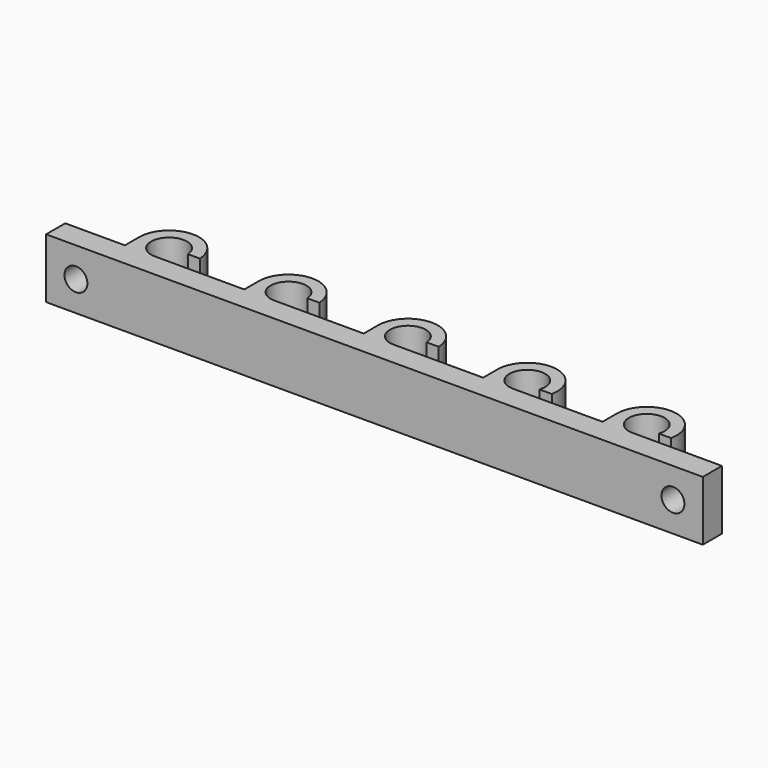
from build123d import *

# Parameters (mm, degrees)
F1_DEPTH = 7.9375
F2_R     = 1.524
F3_DEPTH = 3.176


with BuildPart() as f1:
    # F0 (on Top) → F1 (new body)
    with BuildSketch(Plane.XY):
        with BuildLine():
            ThreePointArc((0, -2.38125), (-1.739019, 1.626703), (2.375952, 0.15875))
            Line((2.375952, 0.15875), (3.965574, 0.15875))
            ThreePointArc((3.965574, 0.15875), (-0.079391, 3.967956), (-3.96875, 0))
            Line((-3.96875, 0), (-3.96875, -2.38125))
            Line((-3.96875, -2.38125), (-11.90625, -2.38125))
            Line((-11.90625, -2.38125), (-11.90625, -5.55625))
            Line((-11.90625, -5.55625), (75.390369, -5.55625))
            Line((75.390369, -5.55625), (75.390369, -2.38125))
            Line((75.390369, -2.38125), (67.452869, -2.38125))
            Line((67.452869, -2.38125), (63.487295, -2.38125))
            ThreePointArc((63.487295, -2.38125), (62.11248, 1.944282), (65.732359, -0.79375))
            Line((65.732359, -0.79375), (67.37586, -0.79375))
            ThreePointArc((67.37586, -0.79375), (63.88619, 3.948653), (59.518545, 0))
            Line((59.518545, 0), (59.518545, -2.38125))
            Line((59.518545, -2.38125), (51.581045, -2.38125))
            Line((51.581045, -2.38125), (47.615471, -2.38125))
            ThreePointArc((47.615471, -2.38125), (46.240656, 1.944282), (49.860535, -0.79375))
            Line((49.860535, -0.79375), (51.504036, -0.79375))
            ThreePointArc((51.504036, -0.79375), (48.014366, 3.948653), (43.646721, 0))
            Line((43.646721, 0), (43.646721, -2.38125))
            Line((43.646721, -2.38125), (35.709221, -2.38125))
            Line((35.709221, -2.38125), (31.743647, -2.38125))
            ThreePointArc((31.743647, -2.38125), (30.004628, 1.626703), (34.1196, 0.15875))
            Line((34.1196, 0.15875), (35.709221, 0.15875))
            ThreePointArc((35.709221, 0.15875), (31.664257, 3.967956), (27.774897, 0))
            Line((27.774897, 0), (27.774897, -2.38125))
            Line((27.774897, -2.38125), (19.837397, -2.38125))
            Line((19.837397, -2.38125), (15.871824, -2.38125))
            ThreePointArc((15.871824, -2.38125), (14.132805, 1.626703), (18.247776, 0.15875))
            Line((18.247776, 0.15875), (19.837397, 0.15875))
            ThreePointArc((19.837397, 0.15875), (15.792433, 3.967956), (11.903074, 0))
            Line((11.903074, 0), (11.903074, -2.38125))
            Line((11.903074, -2.38125), (3.965574, -2.38125))
            Line((3.965574, -2.38125), (0, -2.38125))
        make_face()
    extrude(amount=F1_DEPTH)

    # F2 (on face) → F3 (cut, through all)
    with BuildSketch(Plane(origin=(0, -2.38125, 0), x_dir=(-1, 0, 0), z_dir=(0, 1, 0))):
        with Locations((7.9375, 3.96875)):
            Circle(F2_R)
        with Locations((-71.421619, 3.96875)):
            Circle(F2_R)
    extrude(amount=-F3_DEPTH, mode=Mode.SUBTRACT)


solid = f1.part
